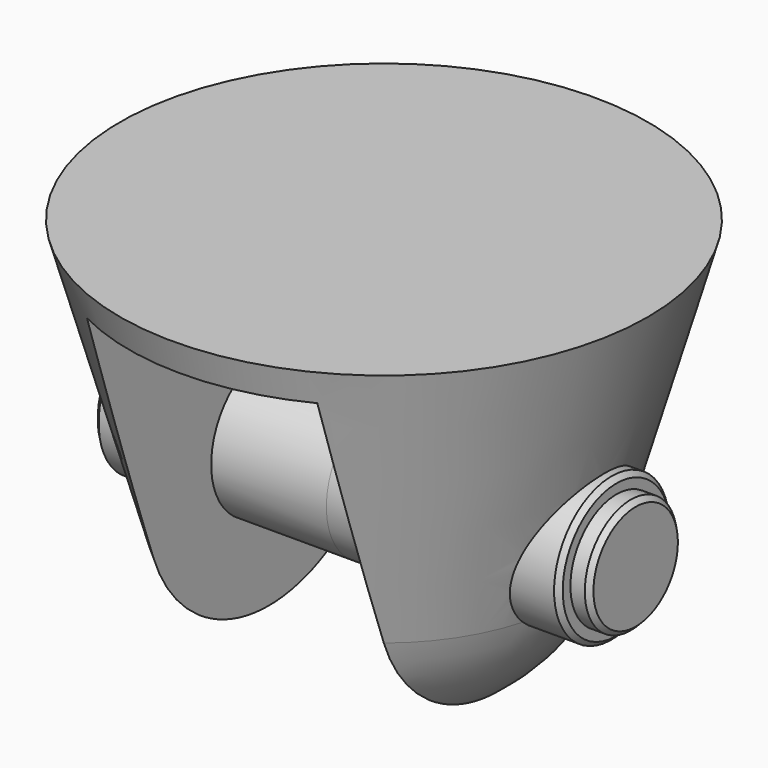
from build123d import *

# Parameters (mm, degrees)
F3_DEPTH      = 27.501
F3_DEPTH_BACK = 27.501
F4_R          = 7.5
F5_DEPTH      = 24.2238989074
F7_R          = 6
F8_DEPTH      = 2
F8_DEPTH_BACK = 12.2238989074
F9_SIZE       = 0.5


with BuildPart() as f1:
    # F0 (on Front) → F1 (revolve)
    with BuildSketch(Plane.XZ):
        with BuildLine():
            Line((27.5, 0), (0, 0))
            Line((0, 0), (0, -43.3184476327))
            ThreePointArc((0, -43.3184476327), (12.0343671506, -39.2926145056), (19.2238989074, -28.8358483611))
            Line((19.2238989074, -28.8358483611), (27.5, 0))
        make_face()
    revolve(axis=Axis((0, 0, 4.3592059342), (0, 0, 1)))

    # F2 (on Front) → F3 (cut, two sides)
    with BuildSketch(Plane.XZ) as f3_sk:
        Polygon((0, -43.3184476327), (12, -43.3184476327), (12, -3.3184476327), (0, -3.3184476327), (-12, -3.3184476327), (-12, -43.3184476327), align=None)
    extrude(amount=-F3_DEPTH, mode=Mode.SUBTRACT)
    extrude(f3_sk.sketch, amount=F3_DEPTH_BACK, mode=Mode.SUBTRACT)

    # F4 (on Right) → F5 (join, through all)
    with BuildSketch(Plane.YZ):
        with Locations((0, -23.3184476327)):
            Circle(F4_R)
    extrude(amount=F5_DEPTH)

    # F6: F1 across plane


with BuildPart() as f1_1:
    add(f1.part)
    add(f1.part.mirror(Plane.YZ))

    # F7 (on face) → F8 (join, two sides)
    with BuildSketch(Plane.YZ.offset(24.2238989074)) as f8_sk:
        with Locations((0, -23.3184476327)):
            Circle(F7_R)
    extrude(amount=F8_DEPTH)
    extrude(f8_sk.sketch, amount=-F8_DEPTH_BACK)

    # F9
    f9_edges = [f1_1.edges().sort_by_distance(p)[0] for p in [
        (26.223899, -6, -23.318448),
        (-24.223899, -7.5, -23.318448),
        (24.223899, -7.5, -23.318448),
    ]]
    chamfer(f9_edges, length=F9_SIZE)


solid = f1_1.part
